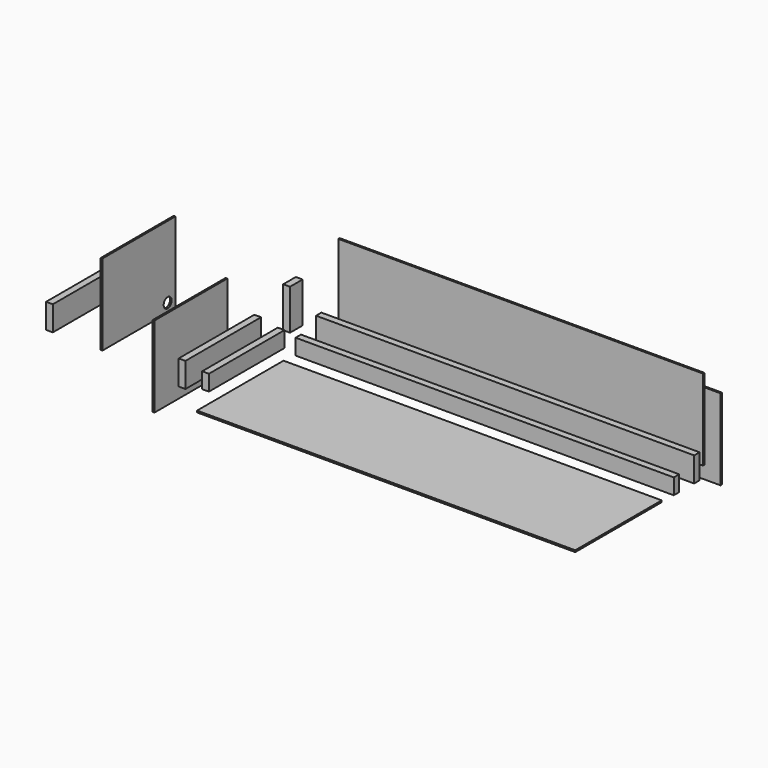
from build123d import *

# Parameters (mm, degrees)
F0_W      = 38.1
F0_H      = 88.9
F1_DEPTH  = 2133.6
F2_W      = 38.1
F2_H      = 88.9
F3_DEPTH  = 533.4
F4_W      = 38.1
F4_H      = 139.7
F5_DEPTH  = 2133.6
F6_W      = 38.1
F6_H      = 139.7
F7_DEPTH  = 533.4
F8_W      = 38.1
F8_H      = 88.9
F9_DEPTH  = 228.6
F10_W     = 2133.6
F10_H     = 609.6
F11_DEPTH = 9.525
F12_W     = 9.525
F12_H     = 457.2
F13_DEPTH = 2057.4
F14_W     = 9.525
F14_H     = 457.2
F15_DEPTH = 2057.4
F16_W     = 9.525
F16_H     = 457.2
F17_DEPTH = 514.35
F18_W     = 9.525
F18_H     = 457.2
F19_DEPTH = 514.35
F20_W     = 38.1
F20_H     = 139.7
F21_DEPTH = 533.4
F22_R     = 28.321
F23_DEPTH = 38.1
F24_R     = 28.321
F25_DEPTH = 9.525
F26_R     = 28.321
F27_DEPTH = 25.4


with BuildPart() as f1:
    # F0 (on Right) → F1 (new body)
    with BuildSketch(Plane.YZ):
        with Locations((-19.05, 44.45)):
            Rectangle(F0_W, F0_H)
    extrude(amount=F1_DEPTH)


with BuildPart() as f3:
    # F2 (on Front) → F3 (new body)
    with BuildSketch(Plane.XZ):
        with Locations((-111.913837, 36.477584)):
            Rectangle(F2_W, F2_H)
    extrude(amount=F3_DEPTH)


with BuildPart() as f5:
    # F4 (on Right) → F5 (new body)
    with BuildSketch(Plane.YZ):
        with Locations((124.870102, 69.85)):
            Rectangle(F4_W, F4_H)
    extrude(amount=F5_DEPTH)


with BuildPart() as f7:
    # F6 (on Front) → F7 (new body)
    with BuildSketch(Plane.XZ):
        with Locations((-244.33665, 31.989101)):
            Rectangle(F6_W, F6_H)
    extrude(amount=F7_DEPTH)


with BuildPart() as f9:
    # F8 (on Top) → F9 (new body)
    with BuildSketch(Plane.XY):
        with Locations((-174.478993, 161.077559)):
            Rectangle(F8_W, F8_H)
    extrude(amount=F9_DEPTH)


with BuildPart() as f11:
    # F10 (on Top) → F11 (new body)
    with BuildSketch(Plane.XY):
        with Locations((1066.8, -428.116654)):
            Rectangle(F10_W, F10_H)
    extrude(amount=F11_DEPTH)


with BuildPart() as f13:
    # F12 (on Right) → F13 (new body)
    with BuildSketch(Plane.YZ):
        with Locations((268.015032, 228.6)):
            Rectangle(F12_W, F12_H)
    extrude(amount=F13_DEPTH)


with BuildPart() as f15:
    # F14 (on Right) → F15 (new body)
    with BuildSketch(Plane.YZ):
        with Locations((392.010808, 80.081202)):
            Rectangle(F14_W, F14_H)
    extrude(amount=F15_DEPTH)

    # F26 (on face) → F27 (cut)
    with BuildSketch(Plane(origin=(0, 396.773308, 0), x_dir=(-1, 0, 0), z_dir=(0, 1, 0))):
        with Locations((-1905, 181.681202)):
            Circle(F26_R)
    extrude(amount=-F27_DEPTH, mode=Mode.SUBTRACT)


with BuildPart() as f17:
    # F16 (on Front) → F17 (new body)
    with BuildSketch(Plane.XZ):
        with Locations((-420.448571, 3.57252)):
            Rectangle(F16_W, F16_H)
    extrude(amount=F17_DEPTH)


with BuildPart() as f19:
    # F18 (on Front) → F19 (new body)
    with BuildSketch(Plane.XZ):
        with Locations((-713.801622, 216.40639)):
            Rectangle(F18_W, F18_H)
    extrude(amount=F19_DEPTH)

    # F24 (on face) → F25 (cut)
    with BuildSketch(Plane(origin=(-718.564122, 0, 0), x_dir=(0, -1, 0), z_dir=(-1, 0, 0))):
        with Locations((53.975, 38.60639)):
            Circle(F24_R)
    extrude(amount=-F25_DEPTH, mode=Mode.SUBTRACT)


with BuildPart() as f21:
    # F20 (on Front) → F21 (new body)
    with BuildSketch(Plane.XZ):
        with Locations((-992.498633, 69.85)):
            Rectangle(F20_W, F20_H)
    extrude(amount=F21_DEPTH)

    # F22 (on face) → F23 (cut)
    with BuildSketch(Plane(origin=(-1011.548633, 0, 0), x_dir=(0, -1, 0), z_dir=(-1, 0, 0))):
        with Locations((63.5, 50.8)):
            Circle(F22_R)
    extrude(amount=-F23_DEPTH, mode=Mode.SUBTRACT)


solid = Compound([f1.part, f3.part, f5.part, f7.part, f9.part, f11.part, f13.part, f15.part, f17.part, f19.part, f21.part])
